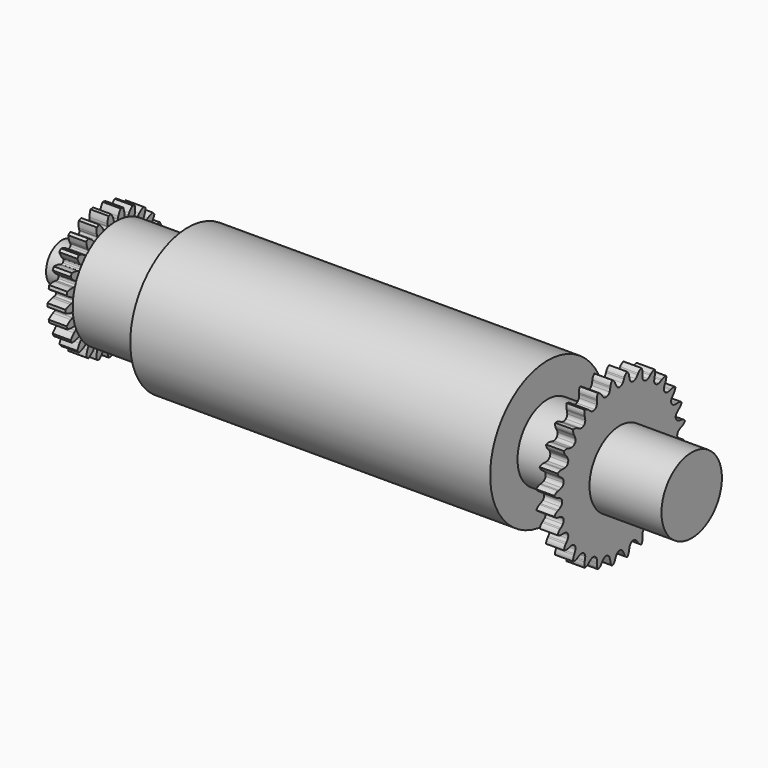
from build123d import *

# Parameters (mm, degrees)
SKETCH_R                = 17.123324
SKETCH_R_2              = 11
PAD_DEPTH               = 10
BODY_PLACEMENT_ANGLE    = 90
PAD002_DEPTH            = 10
SKETCH003_R             = 11
HOLE_DEPTH              = 25
BODY001_ROLL_ANGLE      = 90
BODY001_PLACEMENT_ANGLE = -90
SKETCH006_R             = 40
SKETCH006_R_2           = 21
PAD003_DEPTH            = 200
SKETCH010_R             = 21
PAD004_DEPTH            = 80
PAD005_DEPTH            = 10
SKETCH011_R             = 21
POCKET_DEPTH            = 10
BODY005_PLACEMENT_ANGLE = 270
SKETCH012_R             = 30
SKETCH012_R_2           = 21
PAD006_DEPTH            = 40


with BuildPart() as body:
    # Sketch → Pad (new body)
    with BuildSketch(Plane.XZ):
        Circle(SKETCH_R)
        Circle(SKETCH_R_2, mode=Mode.SUBTRACT)
    extrude(amount=PAD_DEPTH)


with BuildPart() as body_1:
    # Body placement: moved
    add(body.part.moved(Location((40, 0, 0))).rotate(Axis((40, 0, 0), (0, 0, -1)), BODY_PLACEMENT_ANGLE))


with BuildPart() as body001:
    # InvoluteGear → Pad002 (new body)
    with BuildSketch(Plane.XY):
        with BuildLine():
            Line((30.212099, -2.279877), (30.502529, -2.299907))
            add(Edge.make_bspline(
                [(30.502529, -2.299907), (30.632497, -2.302355), (31.024091, -2.295099), (31.676261, -2.158069)],
                knots=[0, 0, 0, 0, 1, 1, 1, 1], degree=3))
            add(Edge.make_bspline(
                [(31.676261, -2.158069), (32.457678, -1.991856), (33.586555, -1.640863), (34.990904, -0.903734)],
                knots=[0, 0, 0, 0, 1, 1, 1, 1], degree=3))
            ThreePointArc((34.990904, -0.903734), (35.002573, 0), (34.990904, 0.903734))
            add(Edge.make_bspline(
                [(34.990904, 0.903734), (33.586555, 1.640863), (32.457678, 1.991856), (31.676261, 2.158069)],
                knots=[0, 0, 0, 0, 1, 1, 1, 1], degree=3))
            add(Edge.make_bspline(
                [(31.676261, 2.158069), (31.024091, 2.295099), (30.632497, 2.302355), (30.502529, 2.299907)],
                knots=[0, 0, 0, 0, 1, 1, 1, 1], degree=3))
            Line((30.502529, 2.299907), (30.212099, 2.279877))
            ThreePointArc((30.212099, 2.279877), (29.541638, 2.494297), (29.209386, 3.114863))
            ThreePointArc((29.209386, 3.114863), (29.160823, 3.540765), (29.10605, 3.965913))
            ThreePointArc((29.10605, 3.965913), (29.280136, 4.64796), (29.8798, 5.016601))
            Line((29.8798, 5.016601), (30.166584, 5.066657))
            add(Edge.make_bspline(
                [(30.166584, 5.066657), (30.293362, 5.095384), (30.67184, 5.196144), (31.272266, 5.485266)],
                knots=[0, 0, 0, 0, 1, 1, 1, 1], degree=3))
            add(Edge.make_bspline(
                [(31.272266, 5.485266), (31.991199, 5.833654), (33.003274, 6.444606), (34.190409, 7.496398)],
                knots=[0, 0, 0, 0, 1, 1, 1, 1], degree=3))
            ThreePointArc((34.190409, 7.496398), (33.985462, 8.376664), (33.757854, 9.251344))
            add(Edge.make_bspline(
                [(33.757854, 9.251344), (32.217906, 9.630971), (31.037834, 9.701607), (30.239346, 9.675985)],
                knots=[0, 0, 0, 0, 1, 1, 1, 1], degree=3))
            add(Edge.make_bspline(
                [(30.239346, 9.675985), (29.573334, 9.652958), (29.191383, 9.566289), (29.065777, 9.532808)],
                knots=[0, 0, 0, 0, 1, 1, 1, 1], degree=3))
            Line((29.065777, 9.532808), (28.78858, 9.443856))
            ThreePointArc((28.78858, 9.443856), (28.086288, 9.491594), (27.615179, 10.014614))
            ThreePointArc((27.615179, 10.014614), (27.466102, 10.416519), (27.311176, 10.816205))
            ThreePointArc((27.311176, 10.816205), (27.316979, 11.520094), (27.810997, 12.021532))
            Line((27.810997, 12.021532), (28.077468, 12.138766))
            add(Edge.make_bspline(
                [(28.077468, 12.138766), (28.193687, 12.196997), (28.537054, 12.385405), (29.050841, 12.809817)],
                knots=[0, 0, 0, 0, 1, 1, 1, 1], degree=3))
            add(Edge.make_bspline(
                [(29.050841, 12.809817), (29.665508, 13.320134), (30.501964, 14.155538), (31.402893, 15.460867)],
                knots=[0, 0, 0, 0, 1, 1, 1, 1], degree=3))
            ThreePointArc((31.402893, 15.460867), (30.99324, 16.266507), (30.56292, 17.0613))
            add(Edge.make_bspline(
                [(30.56292, 17.0613), (28.97687, 17.061362), (27.814185, 16.847536), (27.045031, 16.631567)],
                knots=[0, 0, 0, 0, 1, 1, 1, 1], degree=3))
            add(Edge.make_bspline(
                [(27.045031, 16.631567), (26.403883, 16.449823), (26.053772, 16.274265), (25.939828, 16.211698)],
                knots=[0, 0, 0, 0, 1, 1, 1, 1], degree=3))
            Line((25.939828, 16.211698), (25.691973, 16.058993))
            ThreePointArc((25.691973, 16.058993), (24.998664, 15.937274), (24.416078, 16.332353))
            ThreePointArc((24.416078, 16.332353), (24.175151, 16.686902), (23.929076, 17.037898))
            ThreePointArc((23.929076, 17.037898), (23.766258, 17.722722), (24.125919, 18.327815))
            Line((24.125919, 18.327815), (24.356591, 18.505413))
            add(Edge.make_bspline(
                [(24.356591, 18.505413), (24.455497, 18.589766), (24.743798, 18.854872), (25.141086, 19.389909)],
                knots=[0, 0, 0, 0, 1, 1, 1, 1], degree=3))
            add(Edge.make_bspline(
                [(25.141086, 19.389909), (25.615766, 20.032496), (26.22799, 21.043802), (26.790354, 22.526807)],
                knots=[0, 0, 0, 0, 1, 1, 1, 1], degree=3))
            ThreePointArc((26.790354, 22.526807), (26.199802, 23.211), (25.591781, 23.879716))
            add(Edge.make_bspline(
                [(25.591781, 23.879716), (24.051804, 23.500209), (22.974076, 23.014347), (22.278957, 22.620584)],
                knots=[0, 0, 0, 0, 1, 1, 1, 1], degree=3))
            add(Edge.make_bspline(
                [(22.278957, 22.620584), (21.699934, 22.290684), (21.40201, 22.03644), (21.30635, 21.948423)],
                knots=[0, 0, 0, 0, 1, 1, 1, 1], degree=3))
            Line((21.30635, 21.948423), (21.102243, 21.74084))
            ThreePointArc((21.102243, 21.74084), (20.458209, 21.456738), (19.798004, 21.700914))
            ThreePointArc((19.798004, 21.700914), (19.479228, 21.987503), (19.156304, 22.26941))
            ThreePointArc((19.156304, 22.26941), (18.834329, 22.89537), (19.03873, 23.568952))
            Line((19.03873, 23.568952), (19.220197, 23.796593))
            add(Edge.make_bspline(
                [(19.220197, 23.796593), (19.296043, 23.902165), (19.512522, 24.228562), (19.770223, 24.843129)],
                knots=[0, 0, 0, 0, 1, 1, 1, 1], degree=3))
            add(Edge.make_bspline(
                [(19.770223, 24.843129), (20.077328, 25.580642), (20.429741, 26.709076), (20.620857, 28.28357)],
                knots=[0, 0, 0, 0, 1, 1, 1, 1], degree=3))
            ThreePointArc((20.620857, 28.28357), (19.883728, 28.806553), (19.13334, 29.310329))
            add(Edge.make_bspline(
                [(19.13334, 29.310329), (17.728934, 28.573309), (16.798797, 27.843649), (16.218111, 27.294974)],
                knots=[0, 0, 0, 0, 1, 1, 1, 1], degree=3))
            add(Edge.make_bspline(
                [(16.218111, 27.294974), (15.734863, 26.836091), (15.506441, 26.517938), (15.434625, 26.409585)],
                knots=[0, 0, 0, 0, 1, 1, 1, 1], degree=3))
            Line((15.434625, 26.409585), (15.286126, 26.159188))
            ThreePointArc((15.286126, 26.159188), (14.728797, 25.729214), (14.029341, 25.808297))
            ThreePointArc((14.029341, 25.808297), (13.651243, 26.010271), (13.270238, 26.206705))
            ThreePointArc((13.270238, 26.206705), (12.807817, 26.737422), (12.84508, 27.440348))
            Line((12.84508, 27.440348), (12.966796, 27.704802))
            add(Edge.make_bspline(
                [(12.966796, 27.704802), (13.015172, 27.825456), (13.147249, 28.194176), (13.250386, 28.852557)],
                knots=[0, 0, 0, 0, 1, 1, 1, 1], degree=3))
            add(Edge.make_bspline(
                [(13.250386, 28.852557), (13.372069, 29.642134), (13.44419, 30.822116), (13.252951, 32.396595)],
                knots=[0, 0, 0, 0, 1, 1, 1, 1], degree=3))
            ThreePointArc((13.252951, 32.396595), (12.412084, 32.727975), (11.56294, 33.037532))
            add(Edge.make_bspline(
                [(11.56294, 33.037532), (10.375723, 31.985832), (9.647233, 31.054778), (9.214727, 30.38308)],
                knots=[0, 0, 0, 0, 1, 1, 1, 1], degree=3))
            add(Edge.make_bspline(
                [(9.214727, 30.38308), (8.85534, 29.821882), (8.709694, 29.458309), (8.665896, 29.335918)],
                knots=[0, 0, 0, 0, 1, 1, 1, 1], degree=3))
            Line((8.665896, 29.335918), (8.581636, 29.057259))
            ThreePointArc((8.581636, 29.057259), (8.143401, 28.506401), (7.445344, 28.415796))
            ThreePointArc((7.445344, 28.415796), (7.029898, 28.521416), (6.612954, 28.620962))
            ThreePointArc((6.612954, 28.620962), (6.036962, 29.025592), (5.90492, 29.71701))
            Line((5.90492, 29.71701), (5.959811, 30.002908))
            add(Edge.make_bspline(
                [(5.959811, 30.002908), (5.977908, 30.131634), (6.017906, 30.521247), (5.960485, 31.185179)],
                knots=[0, 0, 0, 0, 1, 1, 1, 1], degree=3))
            add(Edge.make_bspline(
                [(5.960485, 31.185179), (5.889674, 31.980933), (5.677311, 33.143887), (5.114832, 34.626848)],
                knots=[0, 0, 0, 0, 1, 1, 1, 1], degree=3))
            ThreePointArc((5.114832, 34.626848), (4.219094, 34.747365), (3.320543, 34.844714))
            add(Edge.make_bspline(
                [(3.320543, 34.844714), (2.419513, 33.539455), (1.935007, 32.461117), (1.675817, 31.705432)],
                knots=[0, 0, 0, 0, 1, 1, 1, 1], degree=3))
            add(Edge.make_bspline(
                [(1.675817, 31.705432), (1.461176, 31.074534), (1.406771, 30.68667), (1.393536, 30.557354)],
                knots=[0, 0, 0, 0, 1, 1, 1, 1], degree=3))
            Line((1.393536, 30.557354), (1.378412, 30.266627))
            ThreePointArc((1.378412, 30.266627), (1.08474, 29.626901), (0.428651, 29.371872))
            ThreePointArc((0.428651, 29.371872), (0, 29.375), (-0.428651, 29.371872))
            ThreePointArc((-0.428651, 29.371872), (-1.08474, 29.626901), (-1.378412, 30.266627))
            Line((-1.378412, 30.266627), (-1.393536, 30.557354))
            add(Edge.make_bspline(
                [(-1.393536, 30.557354), (-1.406771, 30.68667), (-1.461176, 31.074534), (-1.675817, 31.705432)],
                knots=[0, 0, 0, 0, 1, 1, 1, 1], degree=3))
            add(Edge.make_bspline(
                [(-1.675817, 31.705432), (-1.935007, 32.461117), (-2.419513, 33.539455), (-3.320543, 34.844714)],
                knots=[0, 0, 0, 0, 1, 1, 1, 1], degree=3))
            ThreePointArc((-3.320543, 34.844714), (-4.219094, 34.747365), (-5.114832, 34.626848))
            add(Edge.make_bspline(
                [(-5.114832, 34.626848), (-5.677311, 33.143887), (-5.889674, 31.980933), (-5.960485, 31.185179)],
                knots=[0, 0, 0, 0, 1, 1, 1, 1], degree=3))
            add(Edge.make_bspline(
                [(-5.960485, 31.185179), (-6.017906, 30.521247), (-5.977908, 30.131634), (-5.959811, 30.002908)],
                knots=[0, 0, 0, 0, 1, 1, 1, 1], degree=3))
            Line((-5.959811, 30.002908), (-5.90492, 29.71701))
            ThreePointArc((-5.90492, 29.71701), (-6.036962, 29.025592), (-6.612954, 28.620962))
            ThreePointArc((-6.612954, 28.620962), (-7.029898, 28.521416), (-7.445344, 28.415796))
            ThreePointArc((-7.445344, 28.415796), (-8.143401, 28.506401), (-8.581636, 29.057259))
            Line((-8.581636, 29.057259), (-8.665896, 29.335918))
            add(Edge.make_bspline(
                [(-8.665896, 29.335918), (-8.709694, 29.458309), (-8.85534, 29.821882), (-9.214727, 30.38308)],
                knots=[0, 0, 0, 0, 1, 1, 1, 1], degree=3))
            add(Edge.make_bspline(
                [(-9.214727, 30.38308), (-9.647233, 31.054778), (-10.375723, 31.985832), (-11.56294, 33.037532)],
                knots=[0, 0, 0, 0, 1, 1, 1, 1], degree=3))
            ThreePointArc((-11.56294, 33.037532), (-12.412084, 32.727975), (-13.252951, 32.396595))
            add(Edge.make_bspline(
                [(-13.252951, 32.396595), (-13.44419, 30.822116), (-13.372069, 29.642134), (-13.250386, 28.852557)],
                knots=[0, 0, 0, 0, 1, 1, 1, 1], degree=3))
            add(Edge.make_bspline(
                [(-13.250386, 28.852557), (-13.147249, 28.194176), (-13.015172, 27.825456), (-12.966796, 27.704802)],
                knots=[0, 0, 0, 0, 1, 1, 1, 1], degree=3))
            Line((-12.966796, 27.704802), (-12.84508, 27.440348))
            ThreePointArc((-12.84508, 27.440348), (-12.807817, 26.737422), (-13.270238, 26.206705))
            ThreePointArc((-13.270238, 26.206705), (-13.651243, 26.010271), (-14.029341, 25.808297))
            ThreePointArc((-14.029341, 25.808297), (-14.728797, 25.729214), (-15.286126, 26.159188))
            Line((-15.286126, 26.159188), (-15.434625, 26.409585))
            add(Edge.make_bspline(
                [(-15.434625, 26.409585), (-15.506441, 26.517938), (-15.734863, 26.836091), (-16.218111, 27.294974)],
                knots=[0, 0, 0, 0, 1, 1, 1, 1], degree=3))
            add(Edge.make_bspline(
                [(-16.218111, 27.294974), (-16.798797, 27.843649), (-17.728934, 28.573309), (-19.13334, 29.310329)],
                knots=[0, 0, 0, 0, 1, 1, 1, 1], degree=3))
            ThreePointArc((-19.13334, 29.310329), (-19.883728, 28.806553), (-20.620857, 28.28357))
            add(Edge.make_bspline(
                [(-20.620857, 28.28357), (-20.429741, 26.709076), (-20.077328, 25.580642), (-19.770223, 24.843129)],
                knots=[0, 0, 0, 0, 1, 1, 1, 1], degree=3))
            add(Edge.make_bspline(
                [(-19.770223, 24.843129), (-19.512522, 24.228562), (-19.296043, 23.902165), (-19.220197, 23.796593)],
                knots=[0, 0, 0, 0, 1, 1, 1, 1], degree=3))
            Line((-19.220197, 23.796593), (-19.03873, 23.568952))
            ThreePointArc((-19.03873, 23.568952), (-18.834329, 22.89537), (-19.156304, 22.26941))
            ThreePointArc((-19.156304, 22.26941), (-19.479228, 21.987503), (-19.798004, 21.700914))
            ThreePointArc((-19.798004, 21.700914), (-20.458209, 21.456738), (-21.102243, 21.74084))
            Line((-21.102243, 21.74084), (-21.30635, 21.948423))
            add(Edge.make_bspline(
                [(-21.30635, 21.948423), (-21.40201, 22.03644), (-21.699934, 22.290684), (-22.278957, 22.620584)],
                knots=[0, 0, 0, 0, 1, 1, 1, 1], degree=3))
            add(Edge.make_bspline(
                [(-22.278957, 22.620584), (-22.974076, 23.014347), (-24.051804, 23.500209), (-25.591781, 23.879716)],
                knots=[0, 0, 0, 0, 1, 1, 1, 1], degree=3))
            ThreePointArc((-25.591781, 23.879716), (-26.199802, 23.211), (-26.790354, 22.526807))
            add(Edge.make_bspline(
                [(-26.790354, 22.526807), (-26.22799, 21.043802), (-25.615766, 20.032496), (-25.141086, 19.389909)],
                knots=[0, 0, 0, 0, 1, 1, 1, 1], degree=3))
            add(Edge.make_bspline(
                [(-25.141086, 19.389909), (-24.743798, 18.854872), (-24.455497, 18.589766), (-24.356591, 18.505413)],
                knots=[0, 0, 0, 0, 1, 1, 1, 1], degree=3))
            Line((-24.356591, 18.505413), (-24.125919, 18.327815))
            ThreePointArc((-24.125919, 18.327815), (-23.766258, 17.722722), (-23.929076, 17.037898))
            ThreePointArc((-23.929076, 17.037898), (-24.175151, 16.686902), (-24.416078, 16.332353))
            ThreePointArc((-24.416078, 16.332353), (-24.998664, 15.937274), (-25.691973, 16.058993))
            Line((-25.691973, 16.058993), (-25.939828, 16.211698))
            add(Edge.make_bspline(
                [(-25.939828, 16.211698), (-26.053772, 16.274265), (-26.403883, 16.449823), (-27.045031, 16.631567)],
                knots=[0, 0, 0, 0, 1, 1, 1, 1], degree=3))
            add(Edge.make_bspline(
                [(-27.045031, 16.631567), (-27.814185, 16.847536), (-28.97687, 17.061362), (-30.56292, 17.0613)],
                knots=[0, 0, 0, 0, 1, 1, 1, 1], degree=3))
            ThreePointArc((-30.56292, 17.0613), (-30.99324, 16.266507), (-31.402893, 15.460867))
            add(Edge.make_bspline(
                [(-31.402893, 15.460867), (-30.501964, 14.155538), (-29.665508, 13.320134), (-29.050841, 12.809817)],
                knots=[0, 0, 0, 0, 1, 1, 1, 1], degree=3))
            add(Edge.make_bspline(
                [(-29.050841, 12.809817), (-28.537054, 12.385405), (-28.193687, 12.196997), (-28.077468, 12.138766)],
                knots=[0, 0, 0, 0, 1, 1, 1, 1], degree=3))
            Line((-28.077468, 12.138766), (-27.810997, 12.021532))
            ThreePointArc((-27.810997, 12.021532), (-27.316979, 11.520094), (-27.311176, 10.816205))
            ThreePointArc((-27.311176, 10.816205), (-27.466102, 10.416519), (-27.615179, 10.014614))
            ThreePointArc((-27.615179, 10.014614), (-28.086288, 9.491594), (-28.78858, 9.443856))
            Line((-28.78858, 9.443856), (-29.065777, 9.532808))
            add(Edge.make_bspline(
                [(-29.065777, 9.532808), (-29.191383, 9.566289), (-29.573334, 9.652958), (-30.239346, 9.675985)],
                knots=[0, 0, 0, 0, 1, 1, 1, 1], degree=3))
            add(Edge.make_bspline(
                [(-30.239346, 9.675985), (-31.037834, 9.701607), (-32.217906, 9.630971), (-33.757854, 9.251344)],
                knots=[0, 0, 0, 0, 1, 1, 1, 1], degree=3))
            ThreePointArc((-33.757854, 9.251344), (-33.985462, 8.376664), (-34.190409, 7.496398))
            add(Edge.make_bspline(
                [(-34.190409, 7.496398), (-33.003274, 6.444606), (-31.991199, 5.833654), (-31.272266, 5.485266)],
                knots=[0, 0, 0, 0, 1, 1, 1, 1], degree=3))
            add(Edge.make_bspline(
                [(-31.272266, 5.485266), (-30.67184, 5.196144), (-30.293362, 5.095384), (-30.166584, 5.066657)],
                knots=[0, 0, 0, 0, 1, 1, 1, 1], degree=3))
            Line((-30.166584, 5.066657), (-29.8798, 5.016601))
            ThreePointArc((-29.8798, 5.016601), (-29.280136, 4.64796), (-29.10605, 3.965913))
            ThreePointArc((-29.10605, 3.965913), (-29.160823, 3.540765), (-29.209386, 3.114863))
            ThreePointArc((-29.209386, 3.114863), (-29.541638, 2.494297), (-30.212099, 2.279877))
            Line((-30.212099, 2.279877), (-30.502529, 2.299907))
            add(Edge.make_bspline(
                [(-30.502529, 2.299907), (-30.632497, 2.302355), (-31.024091, 2.295099), (-31.676261, 2.158069)],
                knots=[0, 0, 0, 0, 1, 1, 1, 1], degree=3))
            add(Edge.make_bspline(
                [(-31.676261, 2.158069), (-32.457678, 1.991856), (-33.586555, 1.640863), (-34.990904, 0.903734)],
                knots=[0, 0, 0, 0, 1, 1, 1, 1], degree=3))
            ThreePointArc((-34.990904, 0.903734), (-35.002573, 0), (-34.990904, -0.903734))
            add(Edge.make_bspline(
                [(-34.990904, -0.903734), (-33.586555, -1.640863), (-32.457678, -1.991856), (-31.676261, -2.158069)],
                knots=[0, 0, 0, 0, 1, 1, 1, 1], degree=3))
            add(Edge.make_bspline(
                [(-31.676261, -2.158069), (-31.024091, -2.295099), (-30.632497, -2.302355), (-30.502529, -2.299907)],
                knots=[0, 0, 0, 0, 1, 1, 1, 1], degree=3))
            Line((-30.502529, -2.299907), (-30.212099, -2.279877))
            ThreePointArc((-30.212099, -2.279877), (-29.541638, -2.494297), (-29.209386, -3.114863))
            ThreePointArc((-29.209386, -3.114863), (-29.160823, -3.540765), (-29.10605, -3.965913))
            ThreePointArc((-29.10605, -3.965913), (-29.280136, -4.64796), (-29.8798, -5.016601))
            Line((-29.8798, -5.016601), (-30.166584, -5.066657))
            add(Edge.make_bspline(
                [(-30.166584, -5.066657), (-30.293362, -5.095384), (-30.67184, -5.196144), (-31.272266, -5.485266)],
                knots=[0, 0, 0, 0, 1, 1, 1, 1], degree=3))
            add(Edge.make_bspline(
                [(-31.272266, -5.485266), (-31.991199, -5.833654), (-33.003274, -6.444606), (-34.190409, -7.496398)],
                knots=[0, 0, 0, 0, 1, 1, 1, 1], degree=3))
            ThreePointArc((-34.190409, -7.496398), (-33.985462, -8.376664), (-33.757854, -9.251344))
            add(Edge.make_bspline(
                [(-33.757854, -9.251344), (-32.217906, -9.630971), (-31.037834, -9.701607), (-30.239346, -9.675985)],
                knots=[0, 0, 0, 0, 1, 1, 1, 1], degree=3))
            add(Edge.make_bspline(
                [(-30.239346, -9.675985), (-29.573334, -9.652958), (-29.191383, -9.566289), (-29.065777, -9.532808)],
                knots=[0, 0, 0, 0, 1, 1, 1, 1], degree=3))
            Line((-29.065777, -9.532808), (-28.78858, -9.443856))
            ThreePointArc((-28.78858, -9.443856), (-28.086288, -9.491594), (-27.615179, -10.014614))
            ThreePointArc((-27.615179, -10.014614), (-27.466102, -10.416519), (-27.311176, -10.816205))
            ThreePointArc((-27.311176, -10.816205), (-27.316979, -11.520094), (-27.810997, -12.021532))
            Line((-27.810997, -12.021532), (-28.077468, -12.138766))
            add(Edge.make_bspline(
                [(-28.077468, -12.138766), (-28.193687, -12.196997), (-28.537054, -12.385405), (-29.050841, -12.809817)],
                knots=[0, 0, 0, 0, 1, 1, 1, 1], degree=3))
            add(Edge.make_bspline(
                [(-29.050841, -12.809817), (-29.665508, -13.320134), (-30.501964, -14.155538), (-31.402893, -15.460867)],
                knots=[0, 0, 0, 0, 1, 1, 1, 1], degree=3))
            ThreePointArc((-31.402893, -15.460867), (-30.99324, -16.266507), (-30.56292, -17.0613))
            add(Edge.make_bspline(
                [(-30.56292, -17.0613), (-28.97687, -17.061362), (-27.814185, -16.847536), (-27.045031, -16.631567)],
                knots=[0, 0, 0, 0, 1, 1, 1, 1], degree=3))
            add(Edge.make_bspline(
                [(-27.045031, -16.631567), (-26.403883, -16.449823), (-26.053772, -16.274265), (-25.939828, -16.211698)],
                knots=[0, 0, 0, 0, 1, 1, 1, 1], degree=3))
            Line((-25.939828, -16.211698), (-25.691973, -16.058993))
            ThreePointArc((-25.691973, -16.058993), (-24.998664, -15.937274), (-24.416078, -16.332353))
            ThreePointArc((-24.416078, -16.332353), (-24.175151, -16.686902), (-23.929076, -17.037898))
            ThreePointArc((-23.929076, -17.037898), (-23.766258, -17.722722), (-24.125919, -18.327815))
            Line((-24.125919, -18.327815), (-24.356591, -18.505413))
            add(Edge.make_bspline(
                [(-24.356591, -18.505413), (-24.455497, -18.589766), (-24.743798, -18.854872), (-25.141086, -19.389909)],
                knots=[0, 0, 0, 0, 1, 1, 1, 1], degree=3))
            add(Edge.make_bspline(
                [(-25.141086, -19.389909), (-25.615766, -20.032496), (-26.22799, -21.043802), (-26.790354, -22.526807)],
                knots=[0, 0, 0, 0, 1, 1, 1, 1], degree=3))
            ThreePointArc((-26.790354, -22.526807), (-26.199802, -23.211), (-25.591781, -23.879716))
            add(Edge.make_bspline(
                [(-25.591781, -23.879716), (-24.051804, -23.500209), (-22.974076, -23.014347), (-22.278957, -22.620584)],
                knots=[0, 0, 0, 0, 1, 1, 1, 1], degree=3))
            add(Edge.make_bspline(
                [(-22.278957, -22.620584), (-21.699934, -22.290684), (-21.40201, -22.03644), (-21.30635, -21.948423)],
                knots=[0, 0, 0, 0, 1, 1, 1, 1], degree=3))
            Line((-21.30635, -21.948423), (-21.102243, -21.74084))
            ThreePointArc((-21.102243, -21.74084), (-20.458209, -21.456738), (-19.798004, -21.700914))
            ThreePointArc((-19.798004, -21.700914), (-19.479228, -21.987503), (-19.156304, -22.26941))
            ThreePointArc((-19.156304, -22.26941), (-18.834329, -22.89537), (-19.03873, -23.568952))
            Line((-19.03873, -23.568952), (-19.220197, -23.796593))
            add(Edge.make_bspline(
                [(-19.220197, -23.796593), (-19.296043, -23.902165), (-19.512522, -24.228562), (-19.770223, -24.843129)],
                knots=[0, 0, 0, 0, 1, 1, 1, 1], degree=3))
            add(Edge.make_bspline(
                [(-19.770223, -24.843129), (-20.077328, -25.580642), (-20.429741, -26.709076), (-20.620857, -28.28357)],
                knots=[0, 0, 0, 0, 1, 1, 1, 1], degree=3))
            ThreePointArc((-20.620857, -28.28357), (-19.883728, -28.806553), (-19.13334, -29.310329))
            add(Edge.make_bspline(
                [(-19.13334, -29.310329), (-17.728934, -28.573309), (-16.798797, -27.843649), (-16.218111, -27.294974)],
                knots=[0, 0, 0, 0, 1, 1, 1, 1], degree=3))
            add(Edge.make_bspline(
                [(-16.218111, -27.294974), (-15.734863, -26.836091), (-15.506441, -26.517938), (-15.434625, -26.409585)],
                knots=[0, 0, 0, 0, 1, 1, 1, 1], degree=3))
            Line((-15.434625, -26.409585), (-15.286126, -26.159188))
            ThreePointArc((-15.286126, -26.159188), (-14.728797, -25.729214), (-14.029341, -25.808297))
            ThreePointArc((-14.029341, -25.808297), (-13.651243, -26.010271), (-13.270238, -26.206705))
            ThreePointArc((-13.270238, -26.206705), (-12.807817, -26.737422), (-12.84508, -27.440348))
            Line((-12.84508, -27.440348), (-12.966796, -27.704802))
            add(Edge.make_bspline(
                [(-12.966796, -27.704802), (-13.015172, -27.825456), (-13.147249, -28.194176), (-13.250386, -28.852557)],
                knots=[0, 0, 0, 0, 1, 1, 1, 1], degree=3))
            add(Edge.make_bspline(
                [(-13.250386, -28.852557), (-13.372069, -29.642134), (-13.44419, -30.822116), (-13.252951, -32.396595)],
                knots=[0, 0, 0, 0, 1, 1, 1, 1], degree=3))
            ThreePointArc((-13.252951, -32.396595), (-12.412084, -32.727975), (-11.56294, -33.037532))
            add(Edge.make_bspline(
                [(-11.56294, -33.037532), (-10.375723, -31.985832), (-9.647233, -31.054778), (-9.214727, -30.38308)],
                knots=[0, 0, 0, 0, 1, 1, 1, 1], degree=3))
            add(Edge.make_bspline(
                [(-9.214727, -30.38308), (-8.85534, -29.821882), (-8.709694, -29.458309), (-8.665896, -29.335918)],
                knots=[0, 0, 0, 0, 1, 1, 1, 1], degree=3))
            Line((-8.665896, -29.335918), (-8.581636, -29.057259))
            ThreePointArc((-8.581636, -29.057259), (-8.143401, -28.506401), (-7.445344, -28.415796))
            ThreePointArc((-7.445344, -28.415796), (-7.029898, -28.521416), (-6.612954, -28.620962))
            ThreePointArc((-6.612954, -28.620962), (-6.036962, -29.025592), (-5.90492, -29.71701))
            Line((-5.90492, -29.71701), (-5.959811, -30.002908))
            add(Edge.make_bspline(
                [(-5.959811, -30.002908), (-5.977908, -30.131634), (-6.017906, -30.521247), (-5.960485, -31.185179)],
                knots=[0, 0, 0, 0, 1, 1, 1, 1], degree=3))
            add(Edge.make_bspline(
                [(-5.960485, -31.185179), (-5.889674, -31.980933), (-5.677311, -33.143887), (-5.114832, -34.626848)],
                knots=[0, 0, 0, 0, 1, 1, 1, 1], degree=3))
            ThreePointArc((-5.114832, -34.626848), (-4.219094, -34.747365), (-3.320543, -34.844714))
            add(Edge.make_bspline(
                [(-3.320543, -34.844714), (-2.419513, -33.539455), (-1.935007, -32.461117), (-1.675817, -31.705432)],
                knots=[0, 0, 0, 0, 1, 1, 1, 1], degree=3))
            add(Edge.make_bspline(
                [(-1.675817, -31.705432), (-1.461176, -31.074534), (-1.406771, -30.68667), (-1.393536, -30.557354)],
                knots=[0, 0, 0, 0, 1, 1, 1, 1], degree=3))
            Line((-1.393536, -30.557354), (-1.378412, -30.266627))
            ThreePointArc((-1.378412, -30.266627), (-1.08474, -29.626901), (-0.428651, -29.371872))
            ThreePointArc((-0.428651, -29.371872), (0, -29.375), (0.428651, -29.371872))
            ThreePointArc((0.428651, -29.371872), (1.08474, -29.626901), (1.378412, -30.266627))
            Line((1.378412, -30.266627), (1.393536, -30.557354))
            add(Edge.make_bspline(
                [(1.393536, -30.557354), (1.406771, -30.68667), (1.461176, -31.074534), (1.675817, -31.705432)],
                knots=[0, 0, 0, 0, 1, 1, 1, 1], degree=3))
            add(Edge.make_bspline(
                [(1.675817, -31.705432), (1.935007, -32.461117), (2.419513, -33.539455), (3.320543, -34.844714)],
                knots=[0, 0, 0, 0, 1, 1, 1, 1], degree=3))
            ThreePointArc((3.320543, -34.844714), (4.219094, -34.747365), (5.114832, -34.626848))
            add(Edge.make_bspline(
                [(5.114832, -34.626848), (5.677311, -33.143887), (5.889674, -31.980933), (5.960485, -31.185179)],
                knots=[0, 0, 0, 0, 1, 1, 1, 1], degree=3))
            add(Edge.make_bspline(
                [(5.960485, -31.185179), (6.017906, -30.521247), (5.977908, -30.131634), (5.959811, -30.002908)],
                knots=[0, 0, 0, 0, 1, 1, 1, 1], degree=3))
            Line((5.959811, -30.002908), (5.90492, -29.71701))
            ThreePointArc((5.90492, -29.71701), (6.036962, -29.025592), (6.612954, -28.620962))
            ThreePointArc((6.612954, -28.620962), (7.029898, -28.521416), (7.445344, -28.415796))
            ThreePointArc((7.445344, -28.415796), (8.143401, -28.506401), (8.581636, -29.057259))
            Line((8.581636, -29.057259), (8.665896, -29.335918))
            add(Edge.make_bspline(
                [(8.665896, -29.335918), (8.709694, -29.458309), (8.85534, -29.821882), (9.214727, -30.38308)],
                knots=[0, 0, 0, 0, 1, 1, 1, 1], degree=3))
            add(Edge.make_bspline(
                [(9.214727, -30.38308), (9.647233, -31.054778), (10.375723, -31.985832), (11.56294, -33.037532)],
                knots=[0, 0, 0, 0, 1, 1, 1, 1], degree=3))
            ThreePointArc((11.56294, -33.037532), (12.412084, -32.727975), (13.252951, -32.396595))
            add(Edge.make_bspline(
                [(13.252951, -32.396595), (13.44419, -30.822116), (13.372069, -29.642134), (13.250386, -28.852557)],
                knots=[0, 0, 0, 0, 1, 1, 1, 1], degree=3))
            add(Edge.make_bspline(
                [(13.250386, -28.852557), (13.147249, -28.194176), (13.015172, -27.825456), (12.966796, -27.704802)],
                knots=[0, 0, 0, 0, 1, 1, 1, 1], degree=3))
            Line((12.966796, -27.704802), (12.84508, -27.440348))
            ThreePointArc((12.84508, -27.440348), (12.807817, -26.737422), (13.270238, -26.206705))
            ThreePointArc((13.270238, -26.206705), (13.651243, -26.010271), (14.029341, -25.808297))
            ThreePointArc((14.029341, -25.808297), (14.728797, -25.729214), (15.286126, -26.159188))
            Line((15.286126, -26.159188), (15.434625, -26.409585))
            add(Edge.make_bspline(
                [(15.434625, -26.409585), (15.506441, -26.517938), (15.734863, -26.836091), (16.218111, -27.294974)],
                knots=[0, 0, 0, 0, 1, 1, 1, 1], degree=3))
            add(Edge.make_bspline(
                [(16.218111, -27.294974), (16.798797, -27.843649), (17.728934, -28.573309), (19.13334, -29.310329)],
                knots=[0, 0, 0, 0, 1, 1, 1, 1], degree=3))
            ThreePointArc((19.13334, -29.310329), (19.883728, -28.806553), (20.620857, -28.28357))
            add(Edge.make_bspline(
                [(20.620857, -28.28357), (20.429741, -26.709076), (20.077328, -25.580642), (19.770223, -24.843129)],
                knots=[0, 0, 0, 0, 1, 1, 1, 1], degree=3))
            add(Edge.make_bspline(
                [(19.770223, -24.843129), (19.512522, -24.228562), (19.296043, -23.902165), (19.220197, -23.796593)],
                knots=[0, 0, 0, 0, 1, 1, 1, 1], degree=3))
            Line((19.220197, -23.796593), (19.03873, -23.568952))
            ThreePointArc((19.03873, -23.568952), (18.834329, -22.89537), (19.156304, -22.26941))
            ThreePointArc((19.156304, -22.26941), (19.479228, -21.987503), (19.798004, -21.700914))
            ThreePointArc((19.798004, -21.700914), (20.458209, -21.456738), (21.102243, -21.74084))
            Line((21.102243, -21.74084), (21.30635, -21.948423))
            add(Edge.make_bspline(
                [(21.30635, -21.948423), (21.40201, -22.03644), (21.699934, -22.290684), (22.278957, -22.620584)],
                knots=[0, 0, 0, 0, 1, 1, 1, 1], degree=3))
            add(Edge.make_bspline(
                [(22.278957, -22.620584), (22.974076, -23.014347), (24.051804, -23.500209), (25.591781, -23.879716)],
                knots=[0, 0, 0, 0, 1, 1, 1, 1], degree=3))
            ThreePointArc((25.591781, -23.879716), (26.199802, -23.211), (26.790354, -22.526807))
            add(Edge.make_bspline(
                [(26.790354, -22.526807), (26.22799, -21.043802), (25.615766, -20.032496), (25.141086, -19.389909)],
                knots=[0, 0, 0, 0, 1, 1, 1, 1], degree=3))
            add(Edge.make_bspline(
                [(25.141086, -19.389909), (24.743798, -18.854872), (24.455497, -18.589766), (24.356591, -18.505413)],
                knots=[0, 0, 0, 0, 1, 1, 1, 1], degree=3))
            Line((24.356591, -18.505413), (24.125919, -18.327815))
            ThreePointArc((24.125919, -18.327815), (23.766258, -17.722722), (23.929076, -17.037898))
            ThreePointArc((23.929076, -17.037898), (24.175151, -16.686902), (24.416078, -16.332353))
            ThreePointArc((24.416078, -16.332353), (24.998664, -15.937274), (25.691973, -16.058993))
            Line((25.691973, -16.058993), (25.939828, -16.211698))
            add(Edge.make_bspline(
                [(25.939828, -16.211698), (26.053772, -16.274265), (26.403883, -16.449823), (27.045031, -16.631567)],
                knots=[0, 0, 0, 0, 1, 1, 1, 1], degree=3))
            add(Edge.make_bspline(
                [(27.045031, -16.631567), (27.814185, -16.847536), (28.97687, -17.061362), (30.56292, -17.0613)],
                knots=[0, 0, 0, 0, 1, 1, 1, 1], degree=3))
            ThreePointArc((30.56292, -17.0613), (30.99324, -16.266507), (31.402893, -15.460867))
            add(Edge.make_bspline(
                [(31.402893, -15.460867), (30.501964, -14.155538), (29.665508, -13.320134), (29.050841, -12.809817)],
                knots=[0, 0, 0, 0, 1, 1, 1, 1], degree=3))
            add(Edge.make_bspline(
                [(29.050841, -12.809817), (28.537054, -12.385405), (28.193687, -12.196997), (28.077468, -12.138766)],
                knots=[0, 0, 0, 0, 1, 1, 1, 1], degree=3))
            Line((28.077468, -12.138766), (27.810997, -12.021532))
            ThreePointArc((27.810997, -12.021532), (27.316979, -11.520094), (27.311176, -10.816205))
            ThreePointArc((27.311176, -10.816205), (27.466102, -10.416519), (27.615179, -10.014614))
            ThreePointArc((27.615179, -10.014614), (28.086288, -9.491594), (28.78858, -9.443856))
            Line((28.78858, -9.443856), (29.065777, -9.532808))
            add(Edge.make_bspline(
                [(29.065777, -9.532808), (29.191383, -9.566289), (29.573334, -9.652958), (30.239346, -9.675985)],
                knots=[0, 0, 0, 0, 1, 1, 1, 1], degree=3))
            add(Edge.make_bspline(
                [(30.239346, -9.675985), (31.037834, -9.701607), (32.217906, -9.630971), (33.757854, -9.251344)],
                knots=[0, 0, 0, 0, 1, 1, 1, 1], degree=3))
            ThreePointArc((33.757854, -9.251344), (33.985462, -8.376664), (34.190409, -7.496398))
            add(Edge.make_bspline(
                [(34.190409, -7.496398), (33.003274, -6.444606), (31.991199, -5.833654), (31.272266, -5.485266)],
                knots=[0, 0, 0, 0, 1, 1, 1, 1], degree=3))
            add(Edge.make_bspline(
                [(31.272266, -5.485266), (30.67184, -5.196144), (30.293362, -5.095384), (30.166584, -5.066657)],
                knots=[0, 0, 0, 0, 1, 1, 1, 1], degree=3))
            Line((30.166584, -5.066657), (29.8798, -5.016601))
            ThreePointArc((29.8798, -5.016601), (29.280136, -4.64796), (29.10605, -3.965913))
            ThreePointArc((29.10605, -3.965913), (29.160823, -3.540765), (29.209386, -3.114863))
            ThreePointArc((29.209386, -3.114863), (29.541638, -2.494297), (30.212099, -2.279877))
        make_face()
    extrude(amount=PAD002_DEPTH)

    # Sketch003 (on Face262 of Pad002) → Hole (cut)
    with BuildSketch(Plane.XY.offset(10)):
        Circle(SKETCH003_R)
    extrude(amount=-HOLE_DEPTH, mode=Mode.SUBTRACT)


with BuildPart() as body001_1:
    # Body001 roll: moved
    add(body001.part.rotate(Axis((0, 0, 0), (1, 0, 0)), BODY001_ROLL_ANGLE))


with BuildPart() as body001_2:
    # Body001 placement: moved
    add(body001_1.part.moved(Location((30, 0, 0))).rotate(Axis((30, 0, 0), (0, 0, 1)), BODY001_PLACEMENT_ANGLE))


with BuildPart() as revolutionshaftbody:
    # SketchShaft → RevolutionShaft (revolve)
    with BuildSketch(Plane.XY):
        Polygon((0, 0), (120, 0), (120, 21), (40, 21), (40, 11), (0, 11), align=None)
    revolve(axis=Axis((0, 0, 0), (1, 0, 0)))


with BuildPart() as body002:
    # Sketch006 → Pad003 (new body)
    with BuildSketch(Plane.YZ):
        Circle(SKETCH006_R)
        Circle(SKETCH006_R_2, mode=Mode.SUBTRACT)
    extrude(amount=PAD003_DEPTH)


with BuildPart() as body002_1:
    # Body002 placement: moved
    add(body002.part.moved(Location((70, 0, 0))))


with BuildPart() as body004:
    # Sketch010 → Pad004 (new body)
    with BuildSketch(Plane.YZ):
        Circle(SKETCH010_R)
    extrude(amount=PAD004_DEPTH)


with BuildPart() as body004_1:
    # Body004 placement: moved
    add(body004.part.moved(Location((270, 0, 0))))


with BuildPart() as body005:
    # Sprocket → Pad005 (new body)
    with BuildSketch(Plane.XY):
        with BuildLine():
            ThreePointArc((-5.112922, 45.378439), (-3.971406, 44.473895), (-3.214806, 43.22938))
            Line((-3.214806, 43.22938), (-2.967279, 42.589324))
            ThreePointArc((-2.967279, 42.589324), (-2.57281, 41.748861), (-2.065211, 40.971476))
            ThreePointArc((-2.065211, 40.971476), (-1.153118, 40.215778), (0, 39.945013))
            ThreePointArc((0, 39.945013), (1.153118, 40.215778), (2.065211, 40.971476))
            ThreePointArc((2.065211, 40.971476), (2.57281, 41.748861), (2.967279, 42.589324))
            Line((2.967279, 42.589324), (3.214806, 43.22938))
            ThreePointArc((3.214806, 43.22938), (3.971406, 44.473895), (5.112922, 45.378439))
            ThreePointArc((5.112922, 45.378439), (6.024538, 44.242562), (6.485238, 42.86089))
            Line((6.485238, 42.86089), (6.584133, 42.181802))
            ThreePointArc((6.584133, 42.181802), (6.781691, 41.274634), (7.103579, 40.403789))
            ThreePointArc((7.103579, 40.403789), (7.824646, 39.464077), (8.888602, 38.943508))
            ThreePointArc((8.888602, 38.943508), (10.073059, 38.950891), (11.130443, 39.484683))
            Line((11.130443, 39.484683), (12.369899, 40.861239))
            ThreePointArc((12.369899, 40.861239), (12.554434, 41.150653), (12.753646, 41.430167))
            ThreePointArc((12.753646, 41.430167), (13.768207, 42.47512), (15.082383, 43.102975))
            ThreePointArc((15.082383, 43.102975), (15.718387, 41.792723), (15.860085, 40.343177))
            Line((15.860085, 40.343177), (15.805389, 39.659109))
            ThreePointArc((15.805389, 39.659109), (15.79613, 38.730724), (15.916167, 37.810086))
            ThreePointArc((15.916167, 37.810086), (16.410049, 36.733483), (17.331492, 35.989213))
            ThreePointArc((17.331492, 35.989213), (18.487895, 35.732844), (19.637548, 36.017963))
            Line((19.637548, 36.017963), (21.152241, 37.084201))
            ThreePointArc((21.152241, 37.084201), (21.39655, 37.325296), (21.652965, 37.553473))
            ThreePointArc((21.652965, 37.553473), (22.874613, 38.346466), (24.295551, 38.666147))
            ThreePointArc((24.295551, 38.666147), (24.62405, 37.247222), (24.439641, 35.802489))
            Line((24.439641, 35.802489), (24.234097, 35.147742))
            ThreePointArc((24.234097, 35.147742), (24.018485, 34.244695), (23.930651, 33.320428))
            ThreePointArc((23.930651, 33.320428), (24.172583, 32.160918), (24.905308, 31.230269))
            ThreePointArc((24.905308, 31.230269), (25.975671, 30.723004), (27.159945, 30.745152))
            Line((27.159945, 30.745152), (28.873921, 31.447606))
            ThreePointArc((28.873921, 31.447606), (29.165753, 31.628292), (29.466514, 31.793691))
            ThreePointArc((29.466514, 31.793691), (30.83399, 32.29496), (32.290438, 32.290438))
            ThreePointArc((32.290438, 32.290438), (32.29496, 30.83399), (31.793691, 29.466514))
            Line((31.793691, 29.466514), (31.447606, 28.873921))
            ThreePointArc((31.447606, 28.873921), (31.036453, 28.041493), (30.745152, 27.159945))
            ThreePointArc((30.745152, 27.159945), (30.723004, 25.975671), (31.230269, 24.905308))
            ThreePointArc((31.230269, 24.905308), (32.160918, 24.172583), (33.320428, 23.930651))
            Line((33.320428, 23.930651), (35.147742, 24.234097))
            ThreePointArc((35.147742, 24.234097), (35.472464, 24.345314), (35.802489, 24.439641))
            ThreePointArc((35.802489, 24.439641), (37.247222, 24.62405), (38.666147, 24.295551))
            ThreePointArc((38.666147, 24.295551), (38.346466, 22.874613), (37.553473, 21.652965))
            Line((37.553473, 21.652965), (37.084201, 21.152241))
            ThreePointArc((37.084201, 21.152241), (36.498123, 20.432174), (36.017963, 19.637548))
            ThreePointArc((36.017963, 19.637548), (35.732844, 18.487895), (35.989213, 17.331492))
            ThreePointArc((35.989213, 17.331492), (36.733483, 16.410049), (37.810086, 15.916167))
            Line((37.810086, 15.916167), (39.659109, 15.805389))
            ThreePointArc((39.659109, 15.805389), (40.000438, 15.84156), (40.343177, 15.860085))
            ThreePointArc((40.343177, 15.860085), (41.792723, 15.718387), (43.102975, 15.082383))
            ThreePointArc((43.102975, 15.082383), (42.47512, 13.768207), (41.430167, 12.753646))
            Line((41.430167, 12.753646), (40.861239, 12.369899))
            ThreePointArc((40.861239, 12.369899), (40.129625, 11.7983), (39.484683, 11.130443))
            ThreePointArc((39.484683, 11.130443), (38.950891, 10.073059), (38.943508, 8.888602))
            ThreePointArc((38.943508, 8.888602), (39.464077, 7.824646), (40.403789, 7.103579))
            Line((40.403789, 7.103579), (42.181802, 6.584133))
            ThreePointArc((42.181802, 6.584133), (42.522622, 6.543445), (42.86089, 6.485238))
            ThreePointArc((42.86089, 6.485238), (44.242562, 6.024538), (45.378439, 5.112922))
            ThreePointArc((45.378439, 5.112922), (44.473895, 3.971406), (43.22938, 3.214806))
            Line((43.22938, 3.214806), (42.589324, 2.967279))
            ThreePointArc((42.589324, 2.967279), (41.748861, 2.57281), (40.971476, 2.065211))
            ThreePointArc((40.971476, 2.065211), (40.215778, 1.153118), (39.945013, 0))
            ThreePointArc((39.945013, 0), (40.215778, -1.153118), (40.971476, -2.065211))
            Line((40.971476, -2.065211), (42.589324, -2.967279))
            ThreePointArc((42.589324, -2.967279), (42.912544, -3.082787), (43.22938, -3.214806))
            ThreePointArc((43.22938, -3.214806), (44.473895, -3.971406), (45.378439, -5.112922))
            ThreePointArc((45.378439, -5.112922), (44.242562, -6.024538), (42.86089, -6.485238))
            Line((42.86089, -6.485238), (42.181802, -6.584133))
            ThreePointArc((42.181802, -6.584133), (41.274634, -6.781691), (40.403789, -7.103579))
            ThreePointArc((40.403789, -7.103579), (39.464077, -7.824646), (38.943508, -8.888602))
            ThreePointArc((38.943508, -8.888602), (38.950891, -10.073059), (39.484683, -11.130443))
            Line((39.484683, -11.130443), (40.861239, -12.369899))
            ThreePointArc((40.861239, -12.369899), (41.150653, -12.554434), (41.430167, -12.753646))
            ThreePointArc((41.430167, -12.753646), (42.47512, -13.768207), (43.102975, -15.082383))
            ThreePointArc((43.102975, -15.082383), (41.792723, -15.718387), (40.343177, -15.860085))
            Line((40.343177, -15.860085), (39.659109, -15.805389))
            ThreePointArc((39.659109, -15.805389), (38.730724, -15.79613), (37.810086, -15.916167))
            ThreePointArc((37.810086, -15.916167), (36.733483, -16.410049), (35.989213, -17.331492))
            ThreePointArc((35.989213, -17.331492), (35.732844, -18.487895), (36.017963, -19.637548))
            Line((36.017963, -19.637548), (37.084201, -21.152241))
            ThreePointArc((37.084201, -21.152241), (37.325296, -21.39655), (37.553473, -21.652965))
            ThreePointArc((37.553473, -21.652965), (38.346466, -22.874613), (38.666147, -24.295551))
            ThreePointArc((38.666147, -24.295551), (37.247222, -24.62405), (35.802489, -24.439641))
            Line((35.802489, -24.439641), (35.147742, -24.234097))
            ThreePointArc((35.147742, -24.234097), (34.244695, -24.018485), (33.320428, -23.930651))
            ThreePointArc((33.320428, -23.930651), (32.160918, -24.172583), (31.230269, -24.905308))
            ThreePointArc((31.230269, -24.905308), (30.723004, -25.975671), (30.745152, -27.159945))
            Line((30.745152, -27.159945), (31.447606, -28.873921))
            ThreePointArc((31.447606, -28.873921), (31.628292, -29.165753), (31.793691, -29.466514))
            ThreePointArc((31.793691, -29.466514), (32.29496, -30.83399), (32.290438, -32.290438))
            ThreePointArc((32.290438, -32.290438), (30.83399, -32.29496), (29.466514, -31.793691))
            Line((29.466514, -31.793691), (28.873921, -31.447606))
            ThreePointArc((28.873921, -31.447606), (28.041493, -31.036453), (27.159945, -30.745152))
            ThreePointArc((27.159945, -30.745152), (25.975671, -30.723004), (24.905308, -31.230269))
            ThreePointArc((24.905308, -31.230269), (24.172583, -32.160918), (23.930651, -33.320428))
            Line((23.930651, -33.320428), (24.234097, -35.147742))
            ThreePointArc((24.234097, -35.147742), (24.345314, -35.472464), (24.439641, -35.802489))
            ThreePointArc((24.439641, -35.802489), (24.62405, -37.247222), (24.295551, -38.666147))
            ThreePointArc((24.295551, -38.666147), (22.874613, -38.346466), (21.652965, -37.553473))
            Line((21.652965, -37.553473), (21.152241, -37.084201))
            ThreePointArc((21.152241, -37.084201), (20.432174, -36.498123), (19.637548, -36.017963))
            ThreePointArc((19.637548, -36.017963), (18.487895, -35.732844), (17.331492, -35.989213))
            ThreePointArc((17.331492, -35.989213), (16.410049, -36.733483), (15.916167, -37.810086))
            Line((15.916167, -37.810086), (15.805389, -39.659109))
            ThreePointArc((15.805389, -39.659109), (15.84156, -40.000438), (15.860085, -40.343177))
            ThreePointArc((15.860085, -40.343177), (15.718387, -41.792723), (15.082383, -43.102975))
            ThreePointArc((15.082383, -43.102975), (13.768207, -42.47512), (12.753646, -41.430167))
            Line((12.753646, -41.430167), (12.369899, -40.861239))
            ThreePointArc((12.369899, -40.861239), (11.7983, -40.129625), (11.130443, -39.484683))
            ThreePointArc((11.130443, -39.484683), (10.073059, -38.950891), (8.888602, -38.943508))
            ThreePointArc((8.888602, -38.943508), (7.824646, -39.464077), (7.103579, -40.403789))
            Line((7.103579, -40.403789), (6.584133, -42.181802))
            ThreePointArc((6.584133, -42.181802), (6.543445, -42.522622), (6.485238, -42.86089))
            ThreePointArc((6.485238, -42.86089), (6.024538, -44.242562), (5.112922, -45.378439))
            ThreePointArc((5.112922, -45.378439), (3.971406, -44.473895), (3.214806, -43.22938))
            Line((3.214806, -43.22938), (2.967279, -42.589324))
            ThreePointArc((2.967279, -42.589324), (2.57281, -41.748861), (2.065211, -40.971476))
            ThreePointArc((2.065211, -40.971476), (1.153118, -40.215778), (0, -39.945013))
            ThreePointArc((0, -39.945013), (-1.153118, -40.215778), (-2.065211, -40.971476))
            Line((-2.065211, -40.971476), (-2.967279, -42.589324))
            ThreePointArc((-2.967279, -42.589324), (-3.082787, -42.912544), (-3.214806, -43.22938))
            ThreePointArc((-3.214806, -43.22938), (-3.971406, -44.473895), (-5.112922, -45.378439))
            ThreePointArc((-5.112922, -45.378439), (-6.024538, -44.242562), (-6.485238, -42.86089))
            Line((-6.485238, -42.86089), (-6.584133, -42.181802))
            ThreePointArc((-6.584133, -42.181802), (-6.781691, -41.274634), (-7.103579, -40.403789))
            ThreePointArc((-7.103579, -40.403789), (-7.824646, -39.464077), (-8.888602, -38.943508))
            ThreePointArc((-8.888602, -38.943508), (-10.073059, -38.950891), (-11.130443, -39.484683))
            Line((-11.130443, -39.484683), (-12.369899, -40.861239))
            ThreePointArc((-12.369899, -40.861239), (-12.554434, -41.150653), (-12.753646, -41.430167))
            ThreePointArc((-12.753646, -41.430167), (-13.768207, -42.47512), (-15.082383, -43.102975))
            ThreePointArc((-15.082383, -43.102975), (-15.718387, -41.792723), (-15.860085, -40.343177))
            Line((-15.860085, -40.343177), (-15.805389, -39.659109))
            ThreePointArc((-15.805389, -39.659109), (-15.79613, -38.730724), (-15.916167, -37.810086))
            ThreePointArc((-15.916167, -37.810086), (-16.410049, -36.733483), (-17.331492, -35.989213))
            ThreePointArc((-17.331492, -35.989213), (-18.487895, -35.732844), (-19.637548, -36.017963))
            Line((-19.637548, -36.017963), (-21.152241, -37.084201))
            ThreePointArc((-21.152241, -37.084201), (-21.39655, -37.325296), (-21.652965, -37.553473))
            ThreePointArc((-21.652965, -37.553473), (-22.874613, -38.346466), (-24.295551, -38.666147))
            ThreePointArc((-24.295551, -38.666147), (-24.62405, -37.247222), (-24.439641, -35.802489))
            Line((-24.439641, -35.802489), (-24.234097, -35.147742))
            ThreePointArc((-24.234097, -35.147742), (-24.018485, -34.244695), (-23.930651, -33.320428))
            ThreePointArc((-23.930651, -33.320428), (-24.172583, -32.160918), (-24.905308, -31.230269))
            ThreePointArc((-24.905308, -31.230269), (-25.975671, -30.723004), (-27.159945, -30.745152))
            Line((-27.159945, -30.745152), (-28.873921, -31.447606))
            ThreePointArc((-28.873921, -31.447606), (-29.165753, -31.628292), (-29.466514, -31.793691))
            ThreePointArc((-29.466514, -31.793691), (-30.83399, -32.29496), (-32.290438, -32.290438))
            ThreePointArc((-32.290438, -32.290438), (-32.29496, -30.83399), (-31.793691, -29.466514))
            Line((-31.793691, -29.466514), (-31.447606, -28.873921))
            ThreePointArc((-31.447606, -28.873921), (-31.036453, -28.041493), (-30.745152, -27.159945))
            ThreePointArc((-30.745152, -27.159945), (-30.723004, -25.975671), (-31.230269, -24.905308))
            ThreePointArc((-31.230269, -24.905308), (-32.160918, -24.172583), (-33.320428, -23.930651))
            Line((-33.320428, -23.930651), (-35.147742, -24.234097))
            ThreePointArc((-35.147742, -24.234097), (-35.472464, -24.345314), (-35.802489, -24.439641))
            ThreePointArc((-35.802489, -24.439641), (-37.247222, -24.62405), (-38.666147, -24.295551))
            ThreePointArc((-38.666147, -24.295551), (-38.346466, -22.874613), (-37.553473, -21.652965))
            Line((-37.553473, -21.652965), (-37.084201, -21.152241))
            ThreePointArc((-37.084201, -21.152241), (-36.498123, -20.432174), (-36.017963, -19.637548))
            ThreePointArc((-36.017963, -19.637548), (-35.732844, -18.487895), (-35.989213, -17.331492))
            ThreePointArc((-35.989213, -17.331492), (-36.733483, -16.410049), (-37.810086, -15.916167))
            Line((-37.810086, -15.916167), (-39.659109, -15.805389))
            ThreePointArc((-39.659109, -15.805389), (-40.000438, -15.84156), (-40.343177, -15.860085))
            ThreePointArc((-40.343177, -15.860085), (-41.792723, -15.718387), (-43.102975, -15.082383))
            ThreePointArc((-43.102975, -15.082383), (-42.47512, -13.768207), (-41.430167, -12.753646))
            Line((-41.430167, -12.753646), (-40.861239, -12.369899))
            ThreePointArc((-40.861239, -12.369899), (-40.129625, -11.7983), (-39.484683, -11.130443))
            ThreePointArc((-39.484683, -11.130443), (-38.950891, -10.073059), (-38.943508, -8.888602))
            ThreePointArc((-38.943508, -8.888602), (-39.464077, -7.824646), (-40.403789, -7.103579))
            Line((-40.403789, -7.103579), (-42.181802, -6.584133))
            ThreePointArc((-42.181802, -6.584133), (-42.522622, -6.543445), (-42.86089, -6.485238))
            ThreePointArc((-42.86089, -6.485238), (-44.242562, -6.024538), (-45.378439, -5.112922))
            ThreePointArc((-45.378439, -5.112922), (-44.473895, -3.971406), (-43.22938, -3.214806))
            Line((-43.22938, -3.214806), (-42.589324, -2.967279))
            ThreePointArc((-42.589324, -2.967279), (-41.748861, -2.57281), (-40.971476, -2.065211))
            ThreePointArc((-40.971476, -2.065211), (-40.215778, -1.153118), (-39.945013, 0))
            ThreePointArc((-39.945013, 0), (-40.215778, 1.153118), (-40.971476, 2.065211))
            Line((-40.971476, 2.065211), (-42.589324, 2.967279))
            ThreePointArc((-42.589324, 2.967279), (-42.912544, 3.082787), (-43.22938, 3.214806))
            ThreePointArc((-43.22938, 3.214806), (-44.473895, 3.971406), (-45.378439, 5.112922))
            ThreePointArc((-45.378439, 5.112922), (-44.242562, 6.024538), (-42.86089, 6.485238))
            Line((-42.86089, 6.485238), (-42.181802, 6.584133))
            ThreePointArc((-42.181802, 6.584133), (-41.274634, 6.781691), (-40.403789, 7.103579))
            ThreePointArc((-40.403789, 7.103579), (-39.464077, 7.824646), (-38.943508, 8.888602))
            ThreePointArc((-38.943508, 8.888602), (-38.950891, 10.073059), (-39.484683, 11.130443))
            Line((-39.484683, 11.130443), (-40.861239, 12.369899))
            ThreePointArc((-40.861239, 12.369899), (-41.150653, 12.554434), (-41.430167, 12.753646))
            ThreePointArc((-41.430167, 12.753646), (-42.47512, 13.768207), (-43.102975, 15.082383))
            ThreePointArc((-43.102975, 15.082383), (-41.792723, 15.718387), (-40.343177, 15.860085))
            Line((-40.343177, 15.860085), (-39.659109, 15.805389))
            ThreePointArc((-39.659109, 15.805389), (-38.730724, 15.79613), (-37.810086, 15.916167))
            ThreePointArc((-37.810086, 15.916167), (-36.733483, 16.410049), (-35.989213, 17.331492))
            ThreePointArc((-35.989213, 17.331492), (-35.732844, 18.487895), (-36.017963, 19.637548))
            Line((-36.017963, 19.637548), (-37.084201, 21.152241))
            ThreePointArc((-37.084201, 21.152241), (-37.325296, 21.39655), (-37.553473, 21.652965))
            ThreePointArc((-37.553473, 21.652965), (-38.346466, 22.874613), (-38.666147, 24.295551))
            ThreePointArc((-38.666147, 24.295551), (-37.247222, 24.62405), (-35.802489, 24.439641))
            Line((-35.802489, 24.439641), (-35.147742, 24.234097))
            ThreePointArc((-35.147742, 24.234097), (-34.244695, 24.018485), (-33.320428, 23.930651))
            ThreePointArc((-33.320428, 23.930651), (-32.160918, 24.172583), (-31.230269, 24.905308))
            ThreePointArc((-31.230269, 24.905308), (-30.723004, 25.975671), (-30.745152, 27.159945))
            Line((-30.745152, 27.159945), (-31.447606, 28.873921))
            ThreePointArc((-31.447606, 28.873921), (-31.628292, 29.165753), (-31.793691, 29.466514))
            ThreePointArc((-31.793691, 29.466514), (-32.29496, 30.83399), (-32.290438, 32.290438))
            ThreePointArc((-32.290438, 32.290438), (-30.83399, 32.29496), (-29.466514, 31.793691))
            Line((-29.466514, 31.793691), (-28.873921, 31.447606))
            ThreePointArc((-28.873921, 31.447606), (-28.041493, 31.036453), (-27.159945, 30.745152))
            ThreePointArc((-27.159945, 30.745152), (-25.975671, 30.723004), (-24.905308, 31.230269))
            ThreePointArc((-24.905308, 31.230269), (-24.172583, 32.160918), (-23.930651, 33.320428))
            Line((-23.930651, 33.320428), (-24.234097, 35.147742))
            ThreePointArc((-24.234097, 35.147742), (-24.345314, 35.472464), (-24.439641, 35.802489))
            ThreePointArc((-24.439641, 35.802489), (-24.62405, 37.247222), (-24.295551, 38.666147))
            ThreePointArc((-24.295551, 38.666147), (-22.874613, 38.346466), (-21.652965, 37.553473))
            Line((-21.652965, 37.553473), (-21.152241, 37.084201))
            ThreePointArc((-21.152241, 37.084201), (-20.432174, 36.498123), (-19.637548, 36.017963))
            ThreePointArc((-19.637548, 36.017963), (-18.487895, 35.732844), (-17.331492, 35.989213))
            ThreePointArc((-17.331492, 35.989213), (-16.410049, 36.733483), (-15.916167, 37.810086))
            Line((-15.916167, 37.810086), (-15.805389, 39.659109))
            ThreePointArc((-15.805389, 39.659109), (-15.84156, 40.000438), (-15.860085, 40.343177))
            ThreePointArc((-15.860085, 40.343177), (-15.718387, 41.792723), (-15.082383, 43.102975))
            ThreePointArc((-15.082383, 43.102975), (-13.768207, 42.47512), (-12.753646, 41.430167))
            Line((-12.753646, 41.430167), (-12.369899, 40.861239))
            ThreePointArc((-12.369899, 40.861239), (-11.7983, 40.129625), (-11.130443, 39.484683))
            ThreePointArc((-11.130443, 39.484683), (-10.073059, 38.950891), (-8.888602, 38.943508))
            ThreePointArc((-8.888602, 38.943508), (-7.824646, 39.464077), (-7.103579, 40.403789))
            Line((-7.103579, 40.403789), (-6.584133, 42.181802))
            ThreePointArc((-6.584133, 42.181802), (-6.543445, 42.522622), (-6.485238, 42.86089))
            ThreePointArc((-6.485238, 42.86089), (-6.024538, 44.242562), (-5.112922, 45.378439))
        make_face()
    extrude(amount=PAD005_DEPTH)

    # Sketch011 → Pocket (cut, symmetric)
    with BuildSketch(Plane.XY):
        Circle(SKETCH011_R)
    extrude(amount=POCKET_DEPTH, both=True, mode=Mode.SUBTRACT)


with BuildPart() as body005_1:
    # Body005 placement: moved
    add(body005.part.moved(Location((310, 0, 0))).rotate(Axis((310, 0, 0), (0, 1, 0)), BODY005_PLACEMENT_ANGLE))


with BuildPart() as body006:
    # Sketch012 → Pad006 (new body)
    with BuildSketch(Plane.YZ):
        Circle(SKETCH012_R)
        Circle(SKETCH012_R_2, mode=Mode.SUBTRACT)
    extrude(amount=PAD006_DEPTH)


with BuildPart() as body006_1:
    # Body006 placement: moved
    add(body006.part.moved(Location((30, 0, 0))))


solid = Compound([body_1.part, body001_2.part, revolutionshaftbody.part, body002_1.part, body004_1.part, body005_1.part, body006_1.part])
